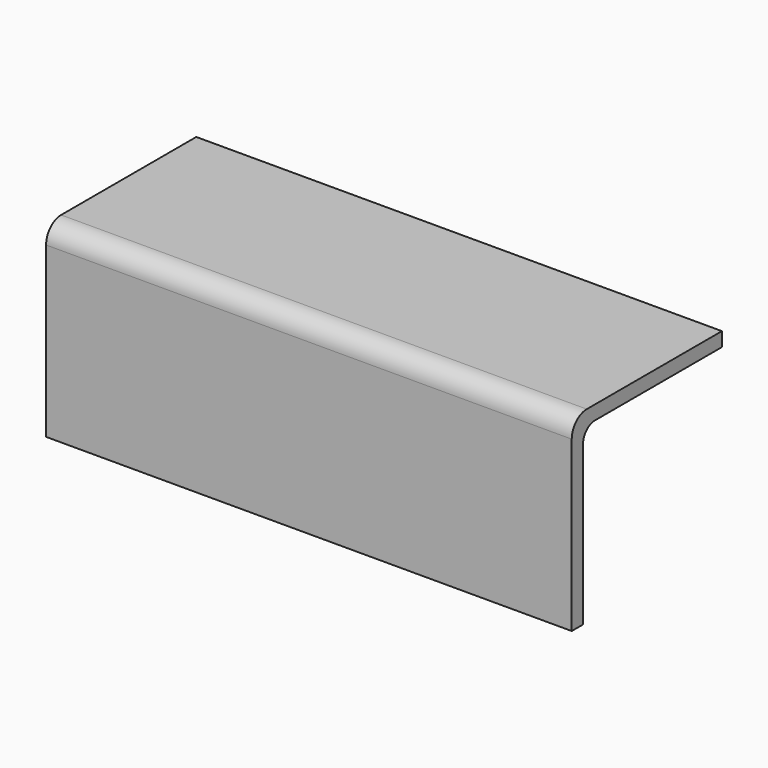
from build123d import *

# Parameters (mm, degrees)
F1_DEPTH = 177.8


with BuildPart() as f1:
    # F0 (on Right) → F1 (new body)
    with BuildSketch(Plane.YZ):
        with BuildLine():
            Line((-28.115756, 44.895094), (-28.115756, -12.254906))
            Line((-28.115756, -12.254906), (-23.353256, -12.254906))
            Line((-23.353256, -12.254906), (-23.353256, 41.402594))
            ThreePointArc((-23.353256, 41.402594), (-21.865359, 44.994697), (-18.273256, 46.482594))
            Line((-18.273256, 46.482594), (35.384244, 46.482594))
            Line((35.384244, 46.482594), (35.384244, 51.245094))
            Line((35.384244, 51.245094), (-21.765756, 51.245094))
            ThreePointArc((-21.765756, 51.245094), (-26.255884, 49.385222), (-28.115756, 44.895094))
        make_face()
    extrude(amount=F1_DEPTH)


solid = f1.part
